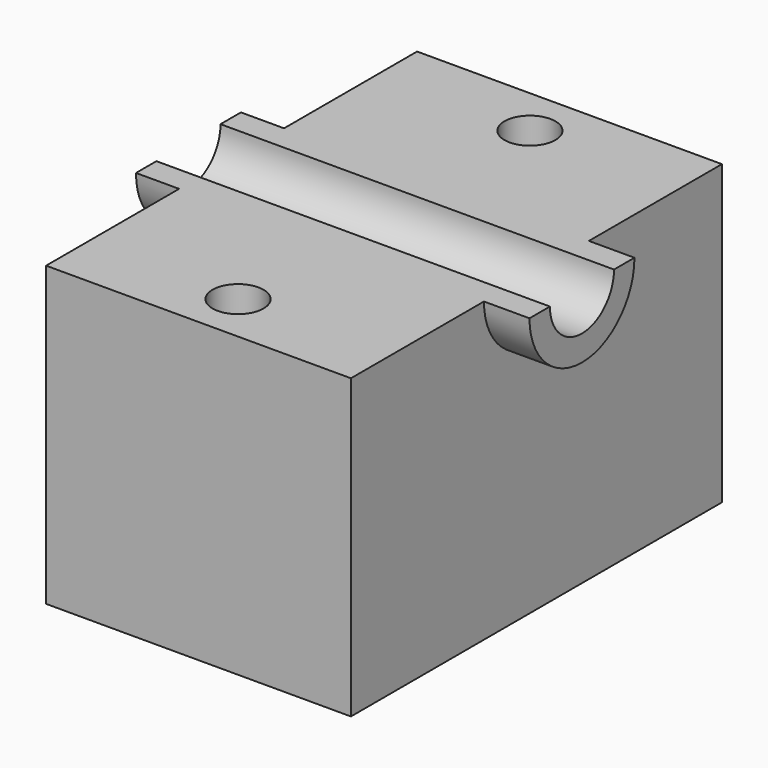
from build123d import *

# Parameters (mm, degrees)
F0_W     = 66.3122907281
F0_H     = 100.8766070008
F0_R     = 5.5402980892
F1_DEPTH = 64.77
F3_DEPTH = 75.692
F5_DEPTH = 65.786
F7_DEPTH = 101.6


with BuildPart() as f1:
    # F0 (on Top) → F1 (new body)
    with BuildSketch(Plane.XY):
        Rectangle(F0_W, F0_H)
        with Locations((0, -39.684958756)):
            Circle(F0_R, mode=Mode.SUBTRACT)
        with Locations((0, 39.684958756)):
            Circle(F0_R, mode=Mode.SUBTRACT)
    extrude(amount=F1_DEPTH)

    # F2 (on face) → F3 (join, symmetric)
    with BuildSketch(Plane.YZ.offset(33.156145364)):
        with BuildLine():
            Line((8.4750251617, 64.77), (-8.4750251617, 64.77))
            ThreePointArc((-8.4750251617, 64.77), (0, 56.2949748383), (8.4750251617, 64.77))
        make_face()
        with BuildLine():
            ThreePointArc((8.4750251617, 64.77), (0, 56.2949748383), (-8.4750251617, 64.77))
            Line((-8.4750251617, 64.77), (-14.2677179965, 64.77))
            ThreePointArc((-14.2677179965, 64.77), (0, 50.5022820035), (14.2677179965, 64.77))
            Line((14.2677179965, 64.77), (8.4750251617, 64.77))
        make_face()
    extrude(amount=F3_DEPTH, both=True)

    # F4 (on face) → F5 (cut)
    with BuildSketch(Plane.YZ.offset(108.848145364)):
        with BuildLine():
            Line((14.2677179965, 64.77), (-14.2677179965, 64.77))
            ThreePointArc((-14.2677179965, 64.77), (0, 50.5022820035), (14.2677179965, 64.77))
        make_face()
    extrude(amount=-F5_DEPTH, mode=Mode.SUBTRACT)

    # F6 (on face) → F7 (cut)
    with BuildSketch(Plane.YZ.offset(43.062145364)):
        with BuildLine():
            Line((8.7146712467, 64.77), (-8.7146712467, 64.77))
            ThreePointArc((-8.7146712467, 64.77), (0, 56.0553287533), (8.7146712467, 64.77))
        make_face()
    extrude(amount=-F7_DEPTH, mode=Mode.SUBTRACT)


solid = f1.part
